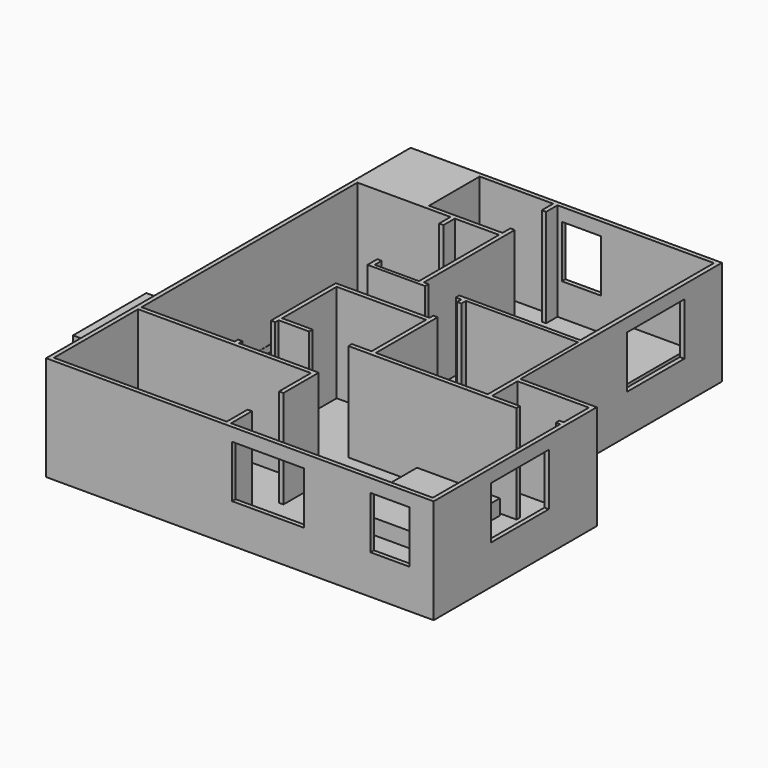
from build123d import *

# Parameters (mm, degrees)
F0_W      = 9029.7
F0_H      = 10617.0984
F1_DEPTH  = 2438.4
F2_W      = 1777.8984
F2_H      = 5867.4
F3_DEPTH  = 3048
F4_W      = 101.4984
F4_H      = 1802.184701
F5_DEPTH  = 2286
F7_W      = 344.260856
F7_H      = 1676.4
F7_W_2    = 1676.4
F7_H_2    = 449.916839
F7_W_3    = 914.4
F7_H_3    = 416.589737
F7_W_4    = 399.9269
F7_H_4    = 566.562653
F8_DEPTH  = 1219.2
F9_W      = 1219.2
F9_H      = 4267.2
F10_DEPTH = 1524
F11_W     = 1524
F11_H     = 2032
F12_DEPTH = 508
F13_W     = 1930.4
F13_H     = 2032
F14_DEPTH = 508
F15_W     = 1828.8
F15_H     = 2133.6
F16_DEPTH = 508


with BuildPart() as f1:
    # F0 (on Top) → F1 (new body)
    with BuildSketch(Plane.XY):
        Rectangle(F0_W, F0_H)
    extrude(amount=F1_DEPTH)

    # F2 (on face) → F3 (cut)
    with BuildSketch(Plane.XY.offset(2438.4)):
        with Locations((3625.9008, 2374.8492)):
            Rectangle(F2_W, F2_H)
    extrude(amount=-F3_DEPTH, mode=Mode.SUBTRACT)

    # F4 (on face) → F5 (cut)
    with BuildSketch(Plane.XY.offset(2438.4)):
        Polygon((-285.65856, -5207.0508), (4413.3516, -5207.0508), (4413.3516, -3784.5492), (4413.3516, -2108.1492), (4413.3516, -1498.5492), (4311.8532, -1498.5492), (4311.8532, -1397.0508), (4413.3516, -1397.0508), (4413.3516, -660.44064), (2749.1436, -660.44064), (2749.1436, -1397.0508), (3397.4532, -1397.0508), (3397.4532, -1498.5492), (-285.65856, -1498.5492), (-518.820502, -1498.5492), (-518.820502, -1397.0508), (-61.620502, -1397.0508), (-61.620502, 190.3476), (-2144.318902, 190.3476), (-2144.318902, -1397.0508), (-1433.220502, -1397.0508), (-1433.220502, -1498.5492), (-2144.318902, -1498.5492), (-2144.318902, -1600.0476), (-2245.817302, -1600.0476), (-2245.817302, 291.846), (-2152.462959, 291.846), (-61.047517, 291.846), (-61.047517, 402.47348), (39.877898, 402.47348), (39.877898, -1397.0508), (2647.6452, -1397.0508), (2647.6452, 1226.246595), (39.877898, 1226.246595), (39.877898, 1093.179703), (-61.047517, 1093.179703), (-61.047517, 1216.52446), (-189.13725, 1216.52446), (-189.13725, 1318.02286), (2631.689145, 1318.02286), (2631.689145, 5207.0508), (-1013.109255, 5207.0508), (-1013.109255, 4876.6476), (-1114.607655, 4876.6476), (-1114.607655, 5207.0508), (-2827.123678, 5207.0508), (-2827.123678, 3733.6476), (-1114.607655, 3733.6476), (-1114.607655, 3962.2476), (-1013.109255, 3962.2476), (-1013.109255, 1318.02286), (-905.907869, 1318.02286), (-905.907869, 1216.52446), (-2152.462959, 1216.52446), (-2245.817302, 1216.52446), (-2245.817302, 1502.013326), (-2245.817302, 3304.198027), (-2245.817302, 3632.1492), (-4413.3516, 3632.1492), (-4413.3516, -2654.3508), (-2245.817302, -2654.3508), (-2245.817302, -2552.8524), (-2144.318902, -2552.8524), (-2144.318902, -2654.3508), (-285.65856, -2654.3508), (-285.65856, -3683.0508), (-387.15696, -3683.0508), (-387.15696, -2755.8492), (-4413.3516, -2755.8492), (-4413.3516, -5207.0508), (-387.15696, -5207.0508), (-387.15696, -4597.4508), (-285.65856, -4597.4508), align=None)
        with Locations((-2195.068102, 2403.105676)):
            Rectangle(F4_W, F4_H)
        Polygon((-2144.318902, 3632.1492), (-2144.318902, 3304.198027), (-2144.318902, 1502.013326), (-2144.318902, 1299.08371), (-1114.607655, 1299.08371), (-1114.607655, 3632.1492), align=None)
    extrude(amount=-F5_DEPTH, mode=Mode.SUBTRACT)

    # F7 (on offset) → F8 (cut)
    with BuildSketch(Plane.XY.offset(914.4)):
        with Locations((4507.505655, -2793.9492)):
            Rectangle(F7_W, F7_H)
        with Locations((654.03984, -5240.704536)):
            Rectangle(F7_W_2, F7_H_2)
        with Locations((3498.9516, -5257.368088)):
            Rectangle(F7_W_3, F7_H_3)
        with Locations((2759.411931, 3375.42286)):
            Rectangle(F7_W_4, F7_H)
        with Locations((-454.410855, 5215.709209)):
            Rectangle(F7_W_3, F7_H_4)
    extrude(amount=F8_DEPTH, mode=Mode.SUBTRACT)

    # F9 (on face) → F10 (cut)
    with BuildSketch(Plane.XY.offset(152.4)):
        with Locations((-3799.910784, 635.0508)):
            Rectangle(F9_W, F9_H)
    extrude(amount=-F10_DEPTH, mode=Mode.SUBTRACT)


with BuildPart() as f12:
    # F11 (on Top) → F12 (new body)
    with BuildSketch(Plane.XY):
        with Locations((1297.790164, 4168.41835)):
            Rectangle(F11_W, F11_H)
    extrude(amount=F12_DEPTH)


with BuildPart() as f14:
    # F13 (on Top) → F14 (new body)
    with BuildSketch(Plane.XY):
        with Locations((2098.304471, -2582.379182)):
            Rectangle(F13_W, F13_H)
    extrude(amount=F14_DEPTH)


with BuildPart() as f16:
    # F15 (on Top) → F16 (new body)
    with BuildSketch(Plane.XY):
        with Locations((-6095.86642, -336.980605)):
            Rectangle(F15_W, F15_H)
    extrude(amount=F16_DEPTH)


solid = Compound([f1.part, f12.part, f14.part, f16.part])
